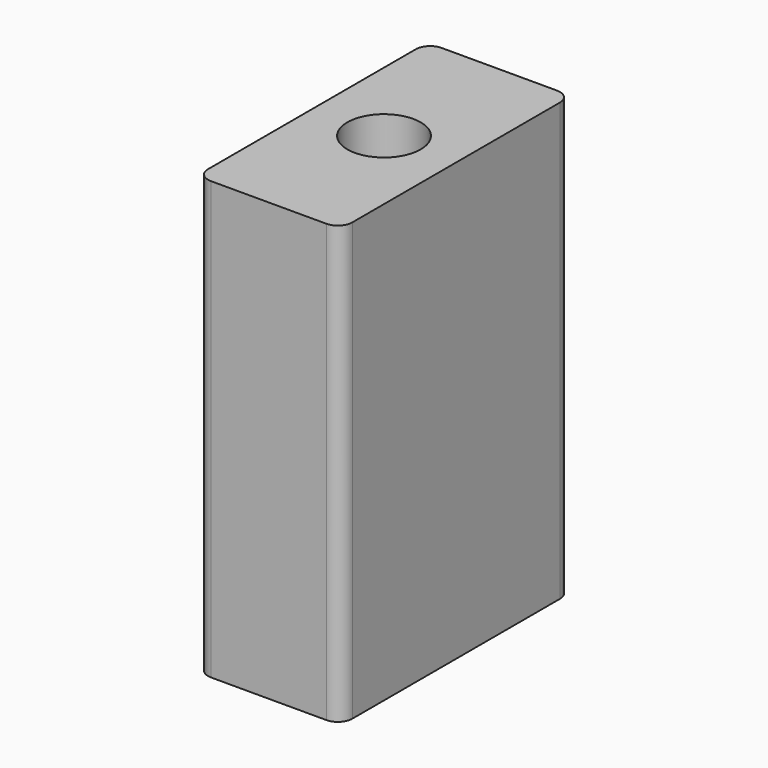
from build123d import *

# Parameters (mm, degrees)
F0_W     = 50.8
F0_H     = 101.6
F0_R     = 12.923254
F1_DEPTH = 153.924
F2_R     = 5.08


with BuildPart() as f1:
    # F0 (on Top) → F1 (new body)
    with BuildSketch(Plane.XY):
        with Locations((25.4, 50.8)):
            Rectangle(F0_W, F0_H)
        with Locations((25.4, 50.8)):
            Circle(F0_R, mode=Mode.SUBTRACT)
    extrude(amount=-F1_DEPTH)

    # F2
    f2_edges = [f1.edges().sort_by_distance(p)[0] for p in [
        (50.8, 0, -76.962),
        (50.8, 101.6, -76.962),
        (0, 0, -76.962),
        (0, 101.6, -76.962),
    ]]
    fillet(f2_edges, radius=F2_R)


solid = f1.part
